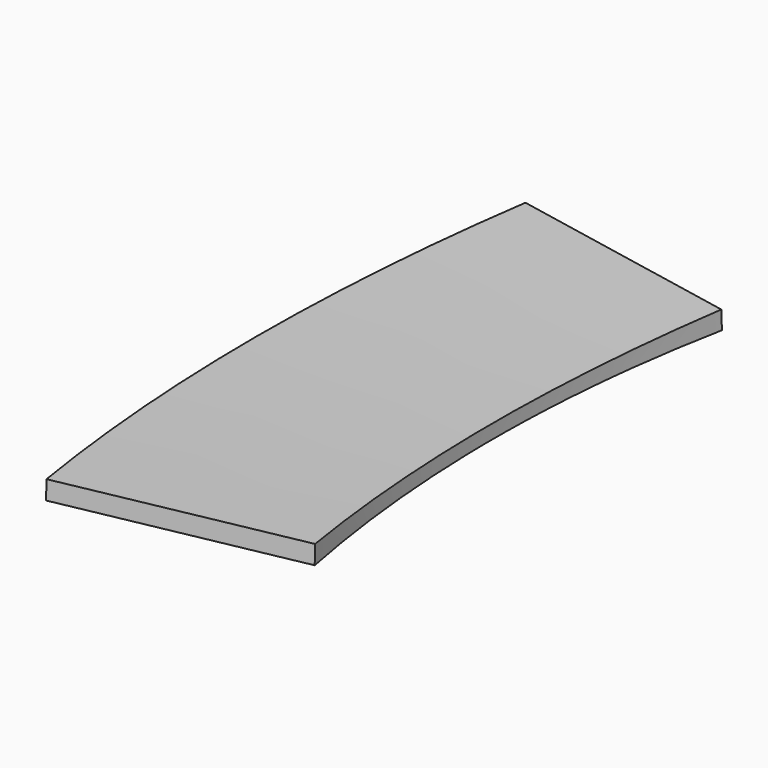
from build123d import *

# Parameters (mm, degrees)
F1_ANGLE = 22.5
F2_W     = 113.060908
F2_H     = 24.353005
F3_DEPTH = 120


with BuildPart() as f1:
    # F0 (on Front) → F1 (revolve, symmetric)
    with BuildSketch(Plane.XZ) as f1_sk:
        Polygon((40.436167, -2.588369), (40.5, -21.652651), (115.499126, -21.40153), (115.435292, -2.337249), align=None)
    revolve(axis=Axis((525.838809, 0, 45.642252), (-0.176945, 0, 0.984221)), revolution_arc=F1_ANGLE / 2)
    revolve(f1_sk.sketch, axis=Axis((525.838809, 0, 45.642252), (0.176945, 0, -0.984221)), revolution_arc=F1_ANGLE / 2)

    # F2 (on Front) → F3 (cut, symmetric)
    with BuildSketch(Plane.XZ):
        with Locations((84.008104, -18.976502)):
            Rectangle(F2_W, F2_H)
    extrude(amount=F3_DEPTH, both=True, mode=Mode.SUBTRACT)


solid = f1.part
